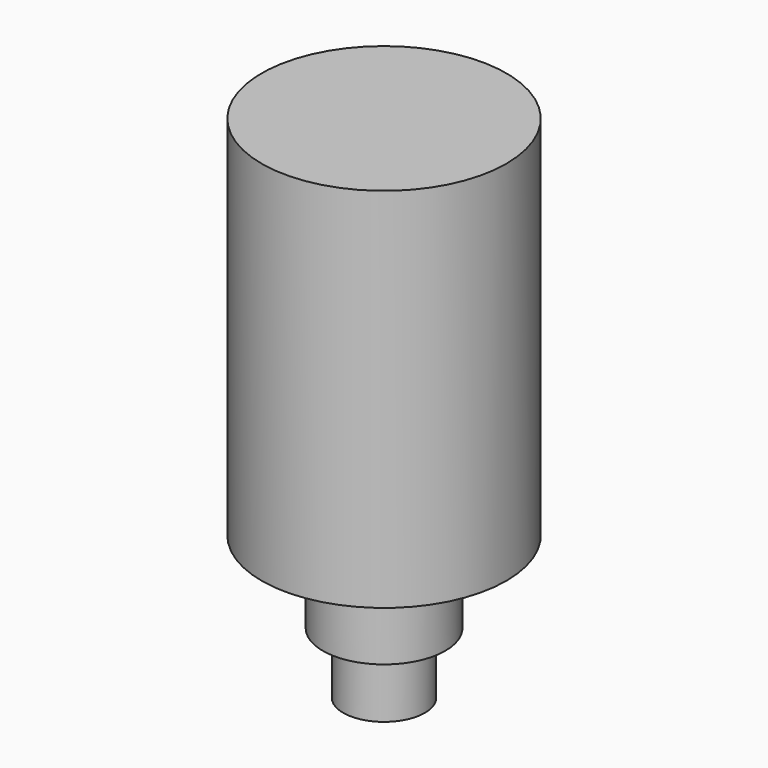
from build123d import *

# Parameters (mm, degrees)
F0_R     = 20
F1_DEPTH = 30
F2_R     = 30
F3_DEPTH = 40
F4_R     = 60
F5_DEPTH = 180
F6_W     = 60
F6_H     = 110
F7_DEPTH = 39.05434


with BuildPart() as f1:
    # F0 (on Top) → F1 (new body)
    with BuildSketch(Plane.XY):
        Circle(F0_R)
    extrude(amount=-F1_DEPTH)

    # F2 (on Top) → F3 (join)
    with BuildSketch(Plane.XY):
        Circle(F2_R)
    extrude(amount=F3_DEPTH)

    # F4 (on face) → F5 (join)
    with BuildSketch(Plane.XY.offset(40)):
        Circle(F4_R)
    extrude(amount=F5_DEPTH)

    # F6 (on Front) → F7 (cut)
    with BuildSketch(Plane.XZ):
        with Locations((0.414748, 138.215205)):
            Rectangle(F6_W, F6_H)
    extrude(amount=-F7_DEPTH, mode=Mode.SUBTRACT)


solid = f1.part
